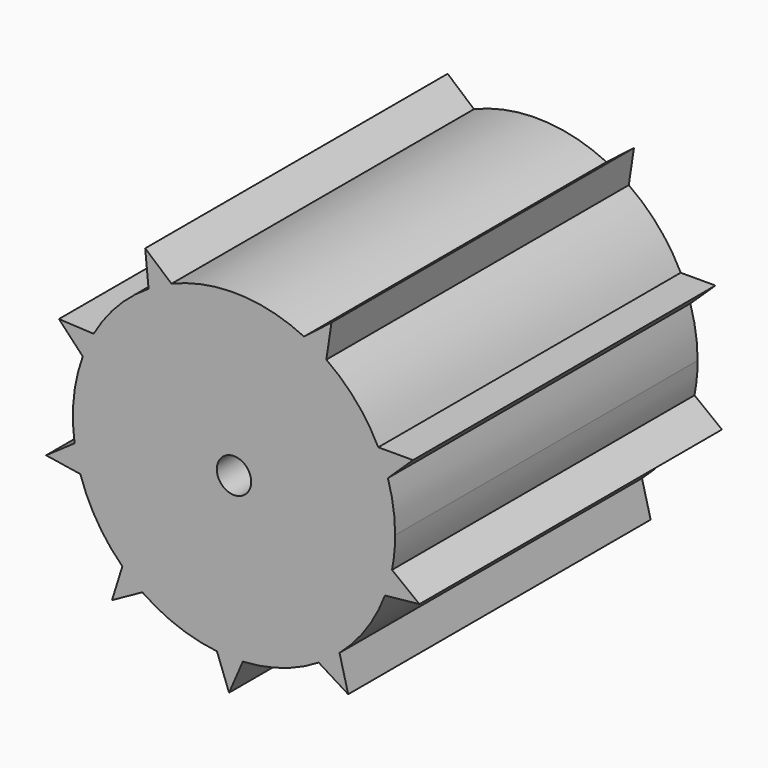
from build123d import *

# Parameters (mm, degrees)
F0_R          = 0.461385
F1_DEPTH      = 5.08
F1_DEPTH_BACK = 5.08


with BuildPart() as f1:
    # F0 (on Front) → F1 (new body, two sides)
    with BuildSketch(Plane.XZ) as f1_sk:
        with BuildLine():
            ThreePointArc((-42.540549, 23.083521), (-42.477447, 23.506359), (-42.456344, 23.933359))
            ThreePointArc((-42.456344, 23.933359), (-42.505388, 24.583257), (-42.651408, 25.218436))
            ThreePointArc((-42.651408, 25.218436), (-42.767765, 25.545895), (-42.910005, 25.862971))
            ThreePointArc((-42.910005, 25.862971), (-43.506236, 26.760188), (-44.305476, 27.48248))
            ThreePointArc((-44.305476, 27.48248), (-44.598046, 27.670021), (-44.904712, 27.833499))
            ThreePointArc((-44.904712, 27.833499), (-46.67566, 28.262487), (-48.466302, 27.925018))
            ThreePointArc((-48.466302, 27.925018), (-48.780959, 27.777505), (-49.082775, 27.605237))
            ThreePointArc((-49.082775, 27.605237), (-49.918056, 26.924947), (-50.55958, 26.059535))
            ThreePointArc((-50.55958, 26.059535), (-50.717916, 25.750183), (-50.850938, 25.429131))
            ThreePointArc((-50.850938, 25.429131), (-51.094391, 24.379741), (-51.071295, 23.302728))
            ThreePointArc((-51.071295, 23.302728), (-51.006934, 22.961222), (-50.915397, 22.625975))
            ThreePointArc((-50.915397, 22.625975), (-50.464964, 21.647405), (-49.78693, 20.810291))
            ThreePointArc((-49.78693, 20.810291), (-49.526852, 20.579794), (-49.24913, 20.370894))
            ThreePointArc((-49.24913, 20.370894), (-48.293638, 19.873375), (-47.244909, 19.62709))
            ThreePointArc((-47.244909, 19.62709), (-46.898143, 19.604231), (-46.550661, 19.60925))
            ThreePointArc((-46.550661, 19.60925), (-45.490666, 19.80135), (-44.510884, 20.24914))
            ThreePointArc((-44.510884, 20.24914), (-44.222799, 20.443501), (-43.951227, 20.660336))
            ThreePointArc((-43.951227, 20.660336), (-43.231095, 21.461523), (-42.730999, 22.415669))
            ThreePointArc((-42.730999, 22.415669), (-42.622365, 22.745771), (-42.540549, 23.083521))
        make_face()
        with Locations((-46.786901, 23.933359)):
            Circle(F0_R, mode=Mode.SUBTRACT)
        with BuildLine():
            ThreePointArc((-42.910005, 25.862971), (-42.767765, 25.545895), (-42.651408, 25.218436))
            Line((-42.651408, 25.218436), (-41.977102, 25.863121))
            Line((-41.977102, 25.863121), (-42.910005, 25.862971))
        make_face()
        with BuildLine():
            Line((-41.803098, 22.512143), (-42.540549, 23.083521))
            ThreePointArc((-42.540549, 23.083521), (-42.622365, 22.745771), (-42.730999, 22.415669))
            Line((-42.730999, 22.415669), (-41.803098, 22.512143))
        make_face()
        with BuildLine():
            ThreePointArc((-44.904712, 27.833499), (-44.598046, 27.670021), (-44.305476, 27.48248))
            Line((-44.305476, 27.48248), (-44.167444, 28.405115))
            Line((-44.167444, 28.405115), (-44.904712, 27.833499))
        make_face()
        with BuildLine():
            Line((-43.718377, 19.756959), (-43.951227, 20.660336))
            ThreePointArc((-43.951227, 20.660336), (-44.222799, 20.443501), (-44.510884, 20.24914))
            Line((-44.510884, 20.24914), (-43.718377, 19.756959))
        make_face()
        with BuildLine():
            ThreePointArc((-49.082775, 27.605237), (-48.780959, 27.777505), (-48.466302, 27.925018))
            Line((-48.466302, 27.925018), (-49.17324, 28.533744))
            Line((-49.17324, 28.533744), (-49.082775, 27.605237))
        make_face()
        with BuildLine():
            Line((-46.920027, 18.752584), (-46.550661, 19.60925))
            ThreePointArc((-46.550661, 19.60925), (-46.898143, 19.604231), (-47.244909, 19.62709))
            Line((-47.244909, 19.62709), (-46.920027, 18.752584))
        make_face()
        with BuildLine():
            ThreePointArc((-50.850938, 25.429131), (-50.717916, 25.750183), (-50.55958, 26.059535))
            Line((-50.55958, 26.059535), (-51.491244, 26.107597))
            Line((-51.491244, 26.107597), (-50.850938, 25.429131))
        make_face()
        with BuildLine():
            Line((-50.065868, 19.920065), (-49.24913, 20.370894))
            ThreePointArc((-49.24913, 20.370894), (-49.526852, 20.579794), (-49.78693, 20.810291))
            Line((-49.78693, 20.810291), (-50.065868, 19.920065))
        make_face()
        with BuildLine():
            ThreePointArc((-50.915397, 22.625975), (-51.006934, 22.961222), (-51.071295, 23.302728))
            Line((-51.071295, 23.302728), (-51.837119, 22.769978))
            Line((-51.837119, 22.769978), (-50.915397, 22.625975))
        make_face()
    extrude(amount=F1_DEPTH)
    extrude(f1_sk.sketch, amount=-F1_DEPTH_BACK)


solid = f1.part
